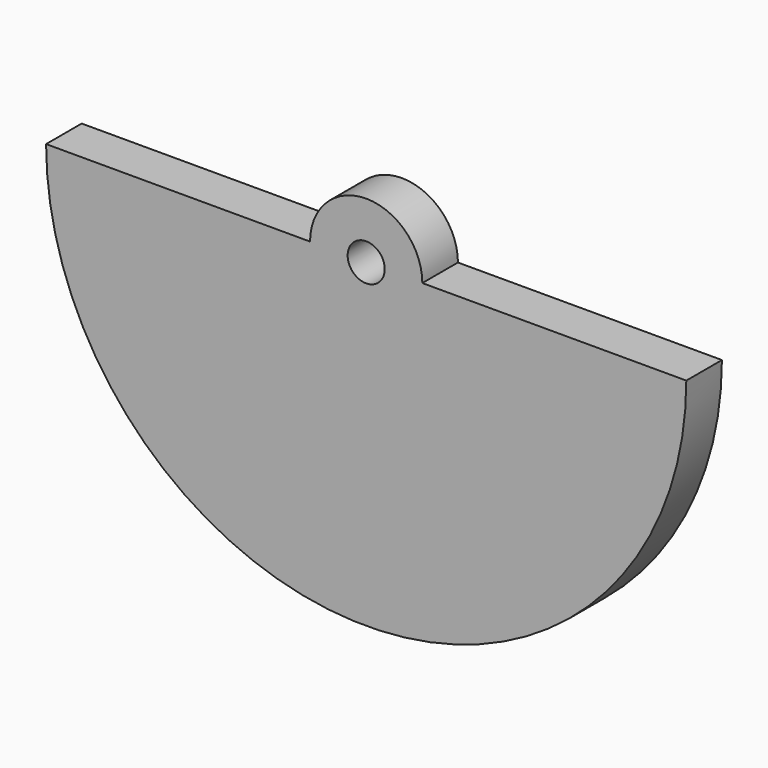
from build123d import *

# Parameters (mm, degrees)
F1_DEPTH = 19.05


with BuildPart() as f1:
    # F0 (on Front) → F1 (new body)
    with BuildSketch(Plane.XZ):
        with BuildLine():
            Line((-24.021259, 0), (-137, 0))
            ThreePointArc((-137, 0), (0, -137), (137, 0))
            Line((137, 0), (24.021259, 0))
            Line((24.021259, 0), (7.94, 0))
            ThreePointArc((7.94, 0), (0, -7.94), (-7.94, 0))
            Line((-7.94, 0), (-24.021259, 0))
        make_face()
        with BuildLine():
            ThreePointArc((24.021259, 0), (0, 24.021259), (-24.021259, 0))
            Line((-24.021259, 0), (-7.94, 0))
            ThreePointArc((-7.94, 0), (0, 7.94), (7.94, 0))
            Line((7.94, 0), (24.021259, 0))
        make_face()
    extrude(amount=F1_DEPTH)


solid = f1.part
